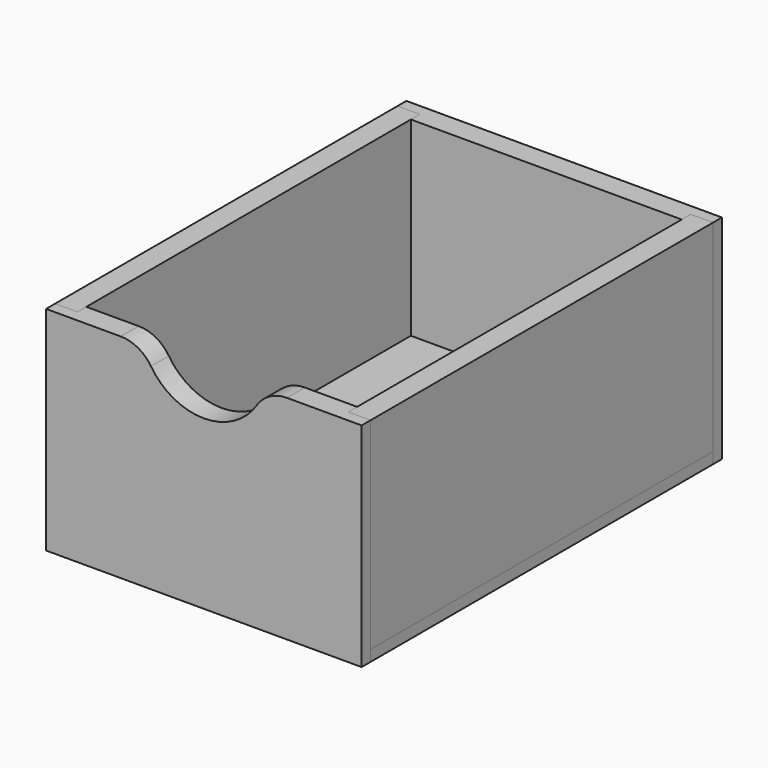
from build123d import *

# Parameters (mm, degrees)
F0_W      = 87.5
F0_H      = 59
F1_DEPTH  = 6.2
F2_W      = 6.2
F2_H      = 52.8
F2_H_2    = 61.7653957486
F3_DEPTH  = 3.1
F4_W      = 87.5
F4_H      = 118.7
F5_DEPTH  = 6.2
F6_W      = 6.2
F6_H      = 118.7
F7_DEPTH  = 3.1
F8_W      = 118.7
F8_H      = 55.9
F9_DEPTH  = 6.2
F11_W     = 87.5
F11_H     = 59
F12_DEPTH = 3.1
F13_W     = 75.1
F13_H     = 52.8
F14_DEPTH = 3.1
F15_R     = 17.5
F16_DEPTH = 25
F17_R     = 10


with BuildPart() as f1:
    # F0 (on Front) → F1 (new body)
    with BuildSketch(Plane.XZ):
        with Locations((43.75, 29.5)):
            Rectangle(F0_W, F0_H)
    extrude(amount=F1_DEPTH)

    # F2 (on face) → F3 (cut)
    with BuildSketch(Plane.XZ):
        Polygon((0, 0), (87.5, 0), (87.5, 6.2), (81.3, 6.2), (6.2, 6.2), (0, 6.2), align=None)
        with Locations((84.4, 32.6)):
            Rectangle(F2_W, F2_H)
        with Locations((3.1, 37.0826978743)):
            Rectangle(F2_W, F2_H_2)
    extrude(amount=F3_DEPTH, mode=Mode.SUBTRACT)

    # F15 (on face) → F16 (cut)
    with BuildSketch(Plane.XZ.offset(6.2)):
        with Locations((43.75, 64)):
            Circle(F15_R)
    extrude(amount=-F16_DEPTH, mode=Mode.SUBTRACT)

    # F17
    f17_edges = [f1.edges().sort_by_distance(p)[0] for p in [
        (26.97949, -3.1, 59),
        (60.52051, -3.1, 59),
    ]]
    fillet(f17_edges, radius=F17_R)


with BuildPart() as f5:
    # F4 (on face) → F5 (new body)
    with BuildSketch(Plane(origin=(0, 0, 0), x_dir=(1, 0, 0), z_dir=(0, 0, -1))):
        with Locations((43.75, -56.25)):
            Rectangle(F4_W, F4_H)
    extrude(amount=-F5_DEPTH)

    # F6 (on face) → F7 (cut)
    with BuildSketch(Plane.XY.offset(6.2)):
        with Locations((3.1, 56.25)):
            Rectangle(F6_W, F6_H)
        with Locations((84.4, 56.25)):
            Rectangle(F6_W, F6_H)
    extrude(amount=-F7_DEPTH, mode=Mode.SUBTRACT)


with BuildPart() as f9:
    # F8 (on face) → F9 (new body)
    with BuildSketch(Plane(origin=(0, 0, 0), x_dir=(0, -1, 0), z_dir=(-1, 0, 0))):
        with Locations((-56.25, 31.05)):
            Rectangle(F8_W, F8_H)
    extrude(amount=-F9_DEPTH)


with BuildPart() as f10_1:
    # F10: copy of F9
    add(f9.part.moved(Location((81.3, 0, 0))))


with BuildPart() as f12:
    # F11 (on face) → F12 (new body)
    with BuildSketch(Plane(origin=(0, 115.6, 0), x_dir=(-1, 0, 0), z_dir=(0, 1, 0))):
        with Locations((-43.75, 29.5)):
            Rectangle(F11_W, F11_H)
    extrude(amount=F12_DEPTH)

    # F13 (on face) → F14 (join)
    with BuildSketch(Plane.XZ.offset(-115.6)):
        with Locations((43.75, 32.6)):
            Rectangle(F13_W, F13_H)
    extrude(amount=F14_DEPTH)


solid = Compound([f1.part, f5.part, f9.part, f10_1.part, f12.part])
